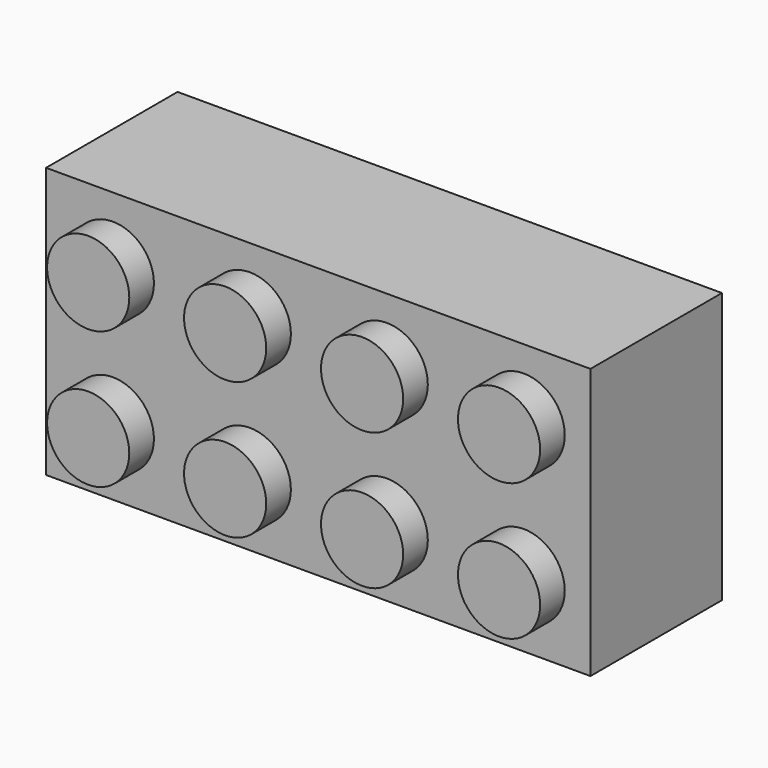
from build123d import *

# Parameters (mm, degrees)
F0_W     = 31.8
F0_H     = 15.8
F1_DEPTH = 9.6
F2_R     = 2.4
F3_DEPTH = 1.8
F5_T     = -1.2
F4_R     = 3.25
F4_R_2   = 2.4
F6_DEPTH = 9.6
F7_W     = 0.6
F7_H     = 0.3
F7_W_2   = 0.3
F7_H_2   = 0.6
F8_DEPTH = 9.6


with BuildPart() as f1:
    # F0 (on Front) → F1 (new body)
    with BuildSketch(Plane.XZ):
        Rectangle(F0_W, F0_H)
    extrude(amount=F1_DEPTH)

    # F2 (on face) → F3 (join)
    with BuildSketch(Plane.XZ.offset(9.6)):
        with Locations((-12, 4)):
            Circle(F2_R)
        with Locations((-4, 4)):
            Circle(F2_R)
        with Locations((4, 4)):
            Circle(F2_R)
        with Locations((12, 4)):
            Circle(F2_R)
        with Locations((-12, -4)):
            Circle(F2_R)
        with Locations((-4, -4)):
            Circle(F2_R)
        with Locations((4, -4)):
            Circle(F2_R)
        with Locations((12, -4)):
            Circle(F2_R)
    extrude(amount=F3_DEPTH)

    # F5
    f5_openings = [f1.faces().sort_by_distance(p)[0] for p in [
        (0, 0, 0),
    ]]
    offset(amount=F5_T, openings=f5_openings, kind=Kind.INTERSECTION)

    # F4 (on face) → F6 (join)
    with BuildSketch(Plane(origin=(0, 0, 0), x_dir=(-1, 0, 0), z_dir=(0, 1, 0))):
        with Locations((7.49, 0)):
            Circle(F4_R)
        with Locations((7.49, 0)):
            Circle(F4_R_2, mode=Mode.SUBTRACT)
        Circle(F4_R)
        Circle(F4_R_2, mode=Mode.SUBTRACT)
        with Locations((-7.49, 0)):
            Circle(F4_R)
        with Locations((-7.49, 0)):
            Circle(F4_R_2, mode=Mode.SUBTRACT)
    extrude(amount=-F6_DEPTH)

    # F7 (on face) → F8 (join)
    with BuildSketch(Plane(origin=(0, 0, 0), x_dir=(-1, 0, 0), z_dir=(0, 1, 0))):
        with Locations((4, -6.55)):
            Rectangle(F7_W, F7_H)
        with Locations((-4, -6.55)):
            Rectangle(F7_W, F7_H)
        with Locations((-12, -6.55)):
            Rectangle(F7_W, F7_H)
        with Locations((-14.55, -4)):
            Rectangle(F7_W_2, F7_H_2)
        with Locations((-14.55, 4)):
            Rectangle(F7_W_2, F7_H_2)
        with Locations((-12, 6.55)):
            Rectangle(F7_W, F7_H)
        with Locations((-4, 6.55)):
            Rectangle(F7_W, F7_H)
        with Locations((4, 6.55)):
            Rectangle(F7_W, F7_H)
        with Locations((12, 6.55)):
            Rectangle(F7_W, F7_H)
        with Locations((12, -6.55)):
            Rectangle(F7_W, F7_H)
        with Locations((14.55, -4)):
            Rectangle(F7_W_2, F7_H_2)
        with Locations((14.55, 4)):
            Rectangle(F7_W_2, F7_H_2)
    extrude(amount=-F8_DEPTH)


solid = f1.part
